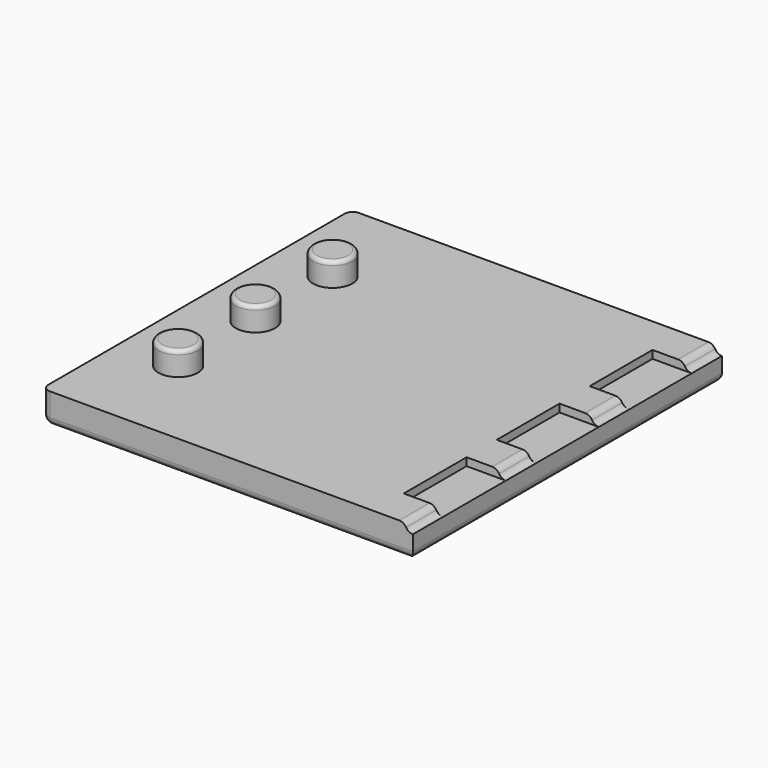
from build123d import *

# Parameters (mm, degrees)
F0_W     = 119.99976
F0_H     = 125.00102
F1_DEPTH = 10
F2_W     = 12.7
F2_H     = 25.4
F3_DEPTH = 2.54
F4_R     = 6.35
F5_DEPTH = 7.62
F6_R     = 1.27
F7_R     = 2.54
F8_R     = 2.54
F9_DEPTH = 125.00202
F10_R    = 2.54


with BuildPart() as f1:
    # F0 (on Top) → F1 (new body)
    with BuildSketch(Plane.XY):
        Rectangle(F0_W, F0_H)
    extrude(amount=F1_DEPTH)

    # F2 (on face) → F3 (cut)
    with BuildSketch(Plane.XY.offset(10)):
        with Locations((53.64988, -37.59327)):
            Rectangle(F2_W, F2_H)
        Polygon((47.29988, -12.7), (59.99988, -12.7), (59.99988, 12.7), (47.29988, 12.7), (47.29988, 0), align=None)
        with Locations((53.64988, 37.59327)):
            Rectangle(F2_W, F2_H)
    extrude(amount=-F3_DEPTH, mode=Mode.SUBTRACT)

    # F4 (on face) → F5 (join)
    with BuildSketch(Plane.XY.offset(10)):
        with Locations((-40.94988, 0)):
            Circle(F4_R)
        with Locations((-40.94988, -31.24962)):
            Circle(F4_R)
        with Locations((-40.94988, 31.24962)):
            Circle(F4_R)
    extrude(amount=F5_DEPTH)

    # F6
    f6_edges = [f1.edges().sort_by_distance(p)[0] for p in [
        (-47.29988, -31.24962, 17.62),
        (-47.29988, 0, 17.62),
        (-47.29988, 31.24962, 17.62),
    ]]
    fillet(f6_edges, radius=F6_R)

    # F7
    f7_edges = [f1.edges().sort_by_distance(p)[0] for p in [
        (-59.99988, 62.50051, 5),
        (-59.99988, -62.50051, 5),
        (0, 62.50051, 0),
        (-59.99988, 0, 0),
        (0, -62.50051, 0),
        (59.99988, 0, 0),
    ]]
    fillet(f7_edges, radius=F7_R)

    # F8 (on face) → F9 (cut, through all)
    with BuildSketch(Plane.XZ.offset(62.50051)):
        with Locations((59.99988, 10)):
            Circle(F8_R)
    extrude(amount=-F9_DEPTH, mode=Mode.SUBTRACT)

    # F10
    f10_edges = [f1.edges().sort_by_distance(p)[0] for p in [
        (57.45988, 56.39689, 10),
        (57.45988, 18.796635, 10),
        (57.45988, -18.796635, 10),
        (57.45988, -56.39689, 10),
    ]]
    fillet(f10_edges, radius=F10_R)


solid = f1.part
